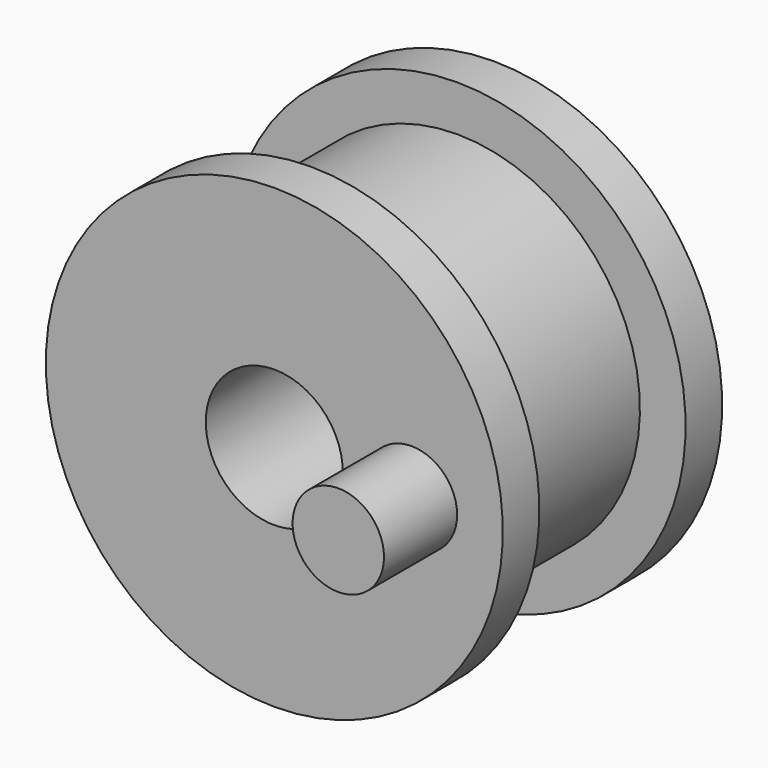
from build123d import *

# Parameters (mm, degrees)
F2_R     = 3.175
F3_DEPTH = 6.35


with BuildPart() as f1:
    # F0 (on Right) → F1 (revolve)
    with BuildSketch(Plane.YZ):
        Polygon((0, 15.875), (0, 4.7625), (19.05, 4.7625), (19.05, 15.875), (15.875, 15.875), (15.875, 12.7), (3.175, 12.7), (3.175, 15.875), align=None)
    revolve(axis=Axis((0, 15.145027, 0), (0, 1, 0)))

    # F2 (on Front) → F3 (join)
    with BuildSketch(Plane.XZ):
        with Locations((9.525, 0)):
            Circle(F2_R)
    extrude(amount=F3_DEPTH)


solid = f1.part
